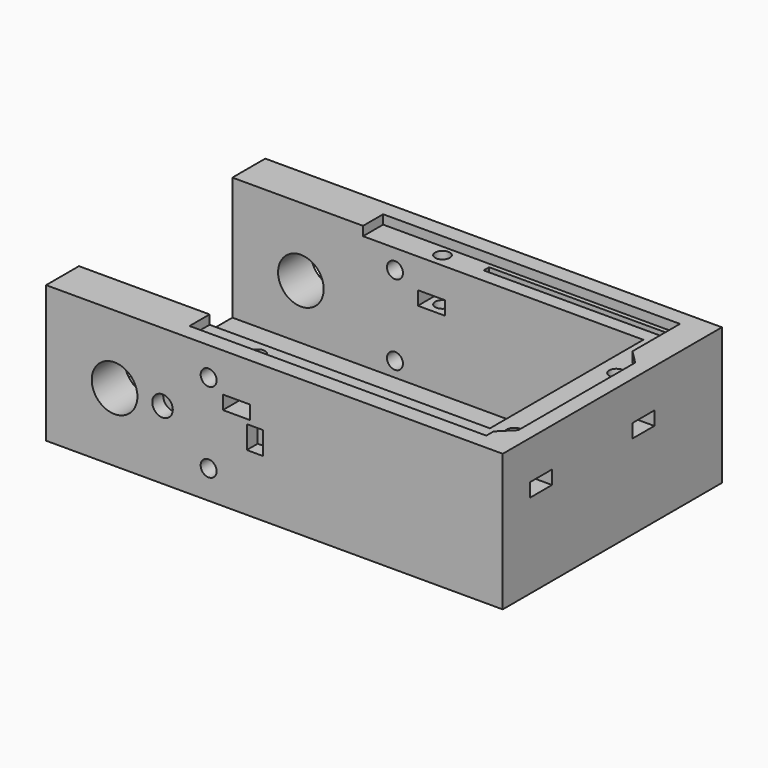
from build123d import *

# Parameters (mm, degrees)
F1_DEPTH  = 30
F0_W      = 90
F0_H      = 42
F2_DEPTH  = 3
F3_R      = 5
F3_R_2    = 1.75
F4_DEPTH  = 9
F3_R_3    = 2.25
F3_W      = 3.5
F3_H      = 5
F5_DEPTH  = 3
F7_W      = 40
F7_H      = 1.5
F7_W_2    = 30
F8_DEPTH  = 3
F7_R      = 1.6
F9_DEPTH  = 2
F10_DEPTH = 15
F11_W     = 6
F11_H     = 3
F12_DEPTH = 9
F13_W     = 6
F13_H     = 3
F14_DEPTH = 9
F15_W     = 6
F15_H     = 3
F16_DEPTH = 10


with BuildPart() as f1:
    # F0 (on Top) → F1 (new body)
    with BuildSketch(Plane.XY):
        Polygon((50, 30), (-50, 30), (-50, 21), (40, 21), (40, -21), (-50, -21), (-50, -30), (50, -30), align=None)
    extrude(amount=F1_DEPTH)

    # F0 (on Top) → F2 (join)
    with BuildSketch(Plane.XY):
        with Locations((-5, 0)):
            Rectangle(F0_W, F0_H)
    extrude(amount=F2_DEPTH)

    # F3 (on face) → F4 (cut, through all)
    with BuildSketch(Plane.XZ.offset(30)):
        with Locations((-35, 15)):
            Circle(F3_R)
        with Locations((-14.4, 23.75)):
            Circle(F3_R_2)
        with Locations((-14.4, 6.25)):
            Circle(F3_R_2)
    extrude(amount=-F4_DEPTH, mode=Mode.SUBTRACT)

    # F3 (on face) → F5 (cut)
    with BuildSketch(Plane.XZ.offset(30)):
        with Locations((-24.5, 15)):
            Circle(F3_R_3)
        with Locations((-4.3, 15)):
            Rectangle(F3_W, F3_H)
    extrude(amount=-F5_DEPTH, mode=Mode.SUBTRACT)

    # F6: F1 across plane


with BuildPart() as f1_1:
    add(f1.part)
    add(f1.part.mirror(Plane.XZ), mode=Mode.INTERSECT)

    # F7 (on face) → F8 (cut)
    with BuildSketch(Plane.XY.offset(30)):
        with Locations((22.6103741318, 24.75)):
            Rectangle(F7_W, F7_H)
        with Locations((27.6103741318, -24.75)):
            Rectangle(F7_W_2, F7_H)
    extrude(amount=-F8_DEPTH, mode=Mode.SUBTRACT)

    # F7 (on face) → F9 (cut)
    with BuildSketch(Plane.XY.offset(30)):
        Polygon((43.6103741318, 26.5), (-21.3896258682, 26.5), (-21.3896258682, -26.5), (43.6103741318, -26.5), (43.6103741318, -24.5), (46.6103741318, -21.5), (46.6103741318, 10.5), (43.6103741318, 13.5), align=None)
        with Locations((-8.2896258682, -24.2)):
            Circle(F7_R, mode=Mode.SUBTRACT)
        with Locations((27.6103741318, -24.75)):
            Rectangle(F7_W_2, F7_H, mode=Mode.SUBTRACT)
        with Locations((44.1103741318, -19.5)):
            Circle(F7_R, mode=Mode.SUBTRACT)
        with Locations((-6.3896258682, 24)):
            Circle(F7_R, mode=Mode.SUBTRACT)
        with Locations((44.1103741318, 8.5)):
            Circle(F7_R, mode=Mode.SUBTRACT)
        with Locations((22.6103741318, 24.75)):
            Rectangle(F7_W, F7_H, mode=Mode.SUBTRACT)
    extrude(amount=-F9_DEPTH, mode=Mode.SUBTRACT)

    # F10 (cut): faces of the model
    f10_faces = [f1_1.faces().sort_by_distance(p)[0] for p in [
        (-6.3896258682, 24, 30),
        (44.1103741318, 8.5, 30),
        (44.1103741318, -19.5, 30),
        (-8.2896258682, -24.2, 30),
    ]]
    extrude(f10_faces, amount=-F10_DEPTH, mode=Mode.SUBTRACT)

    # F11 (on face) → F12 (cut, through all)
    with BuildSketch(Plane.XZ.offset(-21)):
        with Locations((-6.3896258682, 20)):
            Rectangle(F11_W, F11_H)
    extrude(amount=-F12_DEPTH, mode=Mode.SUBTRACT)

    # F13 (on face) → F14 (cut, through all)
    with BuildSketch(Plane(origin=(0, -21, 0), x_dir=(-1, 0, 0), z_dir=(0, 1, 0))):
        with Locations((8.2896258682, 20)):
            Rectangle(F13_W, F13_H)
    extrude(amount=-F14_DEPTH, mode=Mode.SUBTRACT)

    # F15 (on face) → F16 (cut, through all)
    with BuildSketch(Plane(origin=(40, 0, 0), x_dir=(0, -1, 0), z_dir=(-1, 0, 0))):
        with Locations((-8.5, 20)):
            Rectangle(F15_W, F15_H)
        with Locations((19.5, 20)):
            Rectangle(F15_W, F15_H)
    extrude(amount=-F16_DEPTH, mode=Mode.SUBTRACT)


solid = f1_1.part
